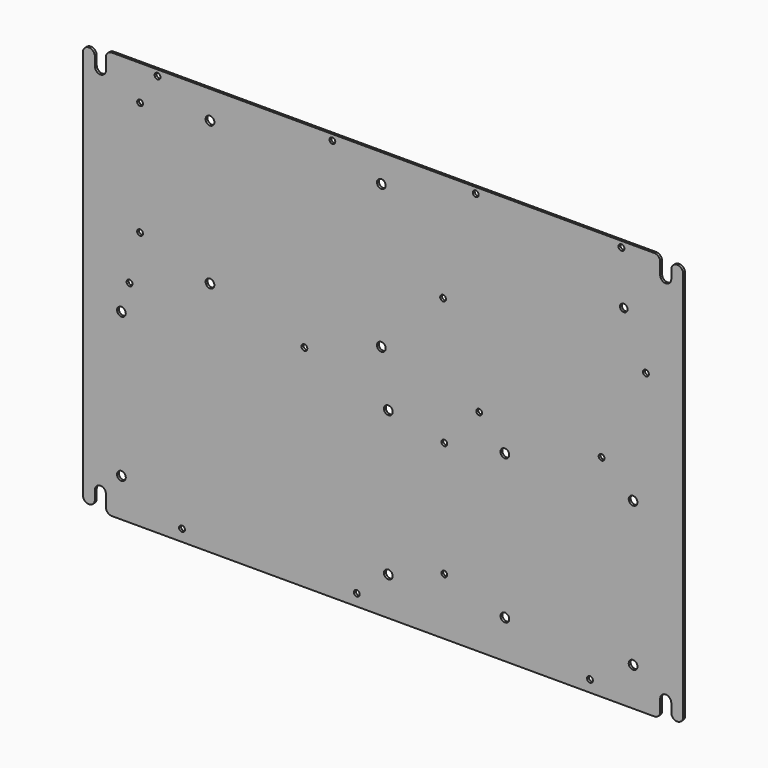
from build123d import *

# Parameters (mm, degrees)
F1_DEPTH = 2
F2_R     = 2.5
F2_R_2   = 3.75
F2_R_3   = 3.25
F3_DEPTH = 25


with BuildPart() as f1:
    # F0 (on Front) → F1 (new body)
    with BuildSketch(Plane.XZ):
        with BuildLine():
            ThreePointArc((-237.75, -170), (-236.285534, -173.535534), (-232.75, -175))
            Line((-232.75, -175), (232.75, -175))
            ThreePointArc((232.75, -175), (236.285534, -173.535534), (237.75, -170))
            Line((237.75, -170), (237.75, -160))
            ThreePointArc((237.75, -160), (242.5, -155.25), (247.25, -160))
            Line((247.25, -160), (247.25, -167.5))
            ThreePointArc((247.25, -167.5), (252.375, -172.4796), (257.5, -167.5))
            Line((257.5, -167.5), (257.5, 167.5))
            ThreePointArc((257.5, 167.5), (252.375, 172.4796), (247.25, 167.5))
            Line((247.25, 167.5), (247.25, 160))
            ThreePointArc((247.25, 160), (242.5, 155.25), (237.75, 160))
            Line((237.75, 160), (237.75, 170))
            ThreePointArc((237.75, 170), (236.285534, 173.535534), (232.75, 175))
            Line((232.75, 175), (-232.75, 175))
            ThreePointArc((-232.75, 175), (-236.285534, 173.535534), (-237.75, 170))
            Line((-237.75, 170), (-237.75, 160))
            ThreePointArc((-237.75, 160), (-242.5, 155.25), (-247.25, 160))
            Line((-247.25, 160), (-247.25, 167.5))
            ThreePointArc((-247.25, 167.5), (-252.375, 172.4796), (-257.5, 167.5))
            Line((-257.5, 167.5), (-257.5, -167.5))
            ThreePointArc((-257.5, -167.5), (-252.375, -172.4796), (-247.25, -167.5))
            Line((-247.25, -167.5), (-247.25, -160))
            ThreePointArc((-247.25, -160), (-242.5, -155.25), (-237.75, -160))
            Line((-237.75, -160), (-237.75, -170))
        make_face()
    extrude(amount=F1_DEPTH)

    # F2 (on face) → F3 (cut)
    with BuildSketch(Plane.XZ.offset(2)):
        with Locations((-172.5, -165)):
            Circle(F2_R)
        with Locations((-22.5, -165)):
            Circle(F2_R)
        with Locations((177.5, -165)):
            Circle(F2_R)
        with Locations((-224.5, -142)):
            Circle(F2_R_2)
        with Locations((-224.5, -18)):
            Circle(F2_R_2)
        with Locations((4.5, -18)):
            Circle(F2_R_2)
        with Locations((4.5, -142)):
            Circle(F2_R_2)
        with Locations((52.5, -126)):
            Circle(F2_R)
        with Locations((52.5, -27)):
            Circle(F2_R)
        with Locations((104.5, -18)):
            Circle(F2_R_2)
        with Locations((214.5, -18)):
            Circle(F2_R_2)
        with Locations((104.5, -142)):
            Circle(F2_R_2)
        with Locations((214.5, -142)):
            Circle(F2_R_2)
        with Locations((-217.5, 6)):
            Circle(F2_R)
        with Locations((-67.5, 6)):
            Circle(F2_R)
        with Locations((82.5, 6)):
            Circle(F2_R)
        with Locations((187.5, 6)):
            Circle(F2_R)
        with Locations((-193.5, 170)):
            Circle(F2_R)
        with Locations((-208.5, 47)):
            Circle(F2_R)
        with Locations((-208.5, 145)):
            Circle(F2_R)
        with Locations((-148.5, 28)):
            Circle(F2_R_2)
        with Locations((-148.5, 151)):
            Circle(F2_R_2)
        with Locations((-1.5, 151)):
            Circle(F2_R_2)
        with Locations((-1.5, 28)):
            Circle(F2_R_2)
        with Locations((51.5, 82)):
            Circle(F2_R)
        with Locations((225.5, 82)):
            Circle(F2_R)
        with Locations((206.5, 125)):
            Circle(F2_R_3)
        with Locations((-43.5, 170)):
            Circle(F2_R)
        with Locations((79.5, 170)):
            Circle(F2_R)
        with Locations((204.5, 170)):
            Circle(F2_R)
    extrude(amount=-F3_DEPTH, mode=Mode.SUBTRACT)


solid = f1.part
